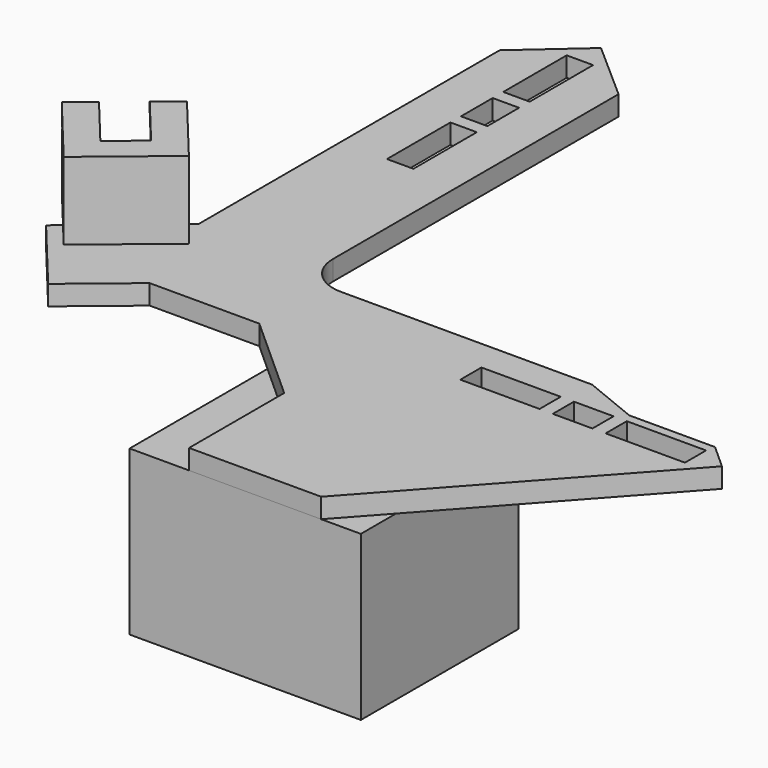
from build123d import *

# Parameters (mm, degrees)
F1_DEPTH  = 1.5
F2_W      = 1
F2_H      = 6
F2_W_2    = 6
F2_H_2    = 1
F3_DEPTH  = 1.501
F5_DEPTH  = 5.85
F6_W      = 2.95
F6_H      = 3.35
F7_DEPTH  = 6.25
F6_W_2    = 0.75
F6_H_2    = 1
F6_W_3    = 1.5
F6_H_3    = 0.75
F8_DEPTH  = 5
F10_DEPTH = 12.4
F12_DEPTH = 13


with BuildPart() as f1:
    # F0 (on Top) → F1 (new body)
    with BuildSketch(Plane.XY):
        with BuildLine():
            Line((4.5, -3.9686269666), (-4.5, -3.9686269666))
            Line((-4.5, -3.9686269666), (-4.5, -32.4686269666))
            Line((-4.5, -32.4686269666), (-11.4354022297, -38.2044962043))
            Line((-11.4354022297, -38.2044962043), (-6.6555111982, -43.9839980624))
            Line((-6.6555111982, -43.9839980624), (-2.0319097118, -40.1600852372))
            Line((-2.0319097118, -40.1600852372), (6.2680902882, -40.1600852372))
            Line((6.2680902882, -40.1600852372), (12.9623928621, -46.1755912882))
            Line((12.9623928621, -46.1755912882), (12.9623928621, -55.1755912882))
            Line((12.9623928621, -55.1755912882), (22.9623928621, -55.1755912882))
            Line((22.9623928621, -55.1755912882), (39.0239336918, -37.3422823923))
            Line((39.0239336918, -37.3422823923), (37.1662973484, -35.6692052225))
            Line((37.1662973484, -35.6692052225), (30.6662973484, -35.6692052225))
            Line((30.6662973484, -35.6692052225), (26.5, -33.9686269666))
            Line((26.5, -33.9686269666), (7.5, -33.9686269666))
            ThreePointArc((7.5, -33.9686269666), (5.3786796564, -33.0899473102), (4.5, -30.9686269666))
            Line((4.5, -30.9686269666), (4.5, -3.9686269666))
        make_face()
        Polygon((4.5, -3.9686269666), (0, 0), (-4.5, -3.9686269666), align=None)
    extrude(amount=F1_DEPTH)

    # F2 (on face) → F3 (cut, through all)
    with BuildSketch(Plane.XY.offset(1.5)):
        with Locations((-0.5, -5)):
            Rectangle(F2_W, F2_H)
        with Locations((0.5, -5)):
            Rectangle(F2_W, F2_H)
        Polygon((0, -12), (0, -10.5), (-1, -9), (-1, -12), align=None)
        Polygon((1, -9), (0, -9), (0, -10.5), (1, -12), align=None)
        with Locations((-0.5, -16)):
            Rectangle(F2_W, F2_H)
        with Locations((0.5, -16)):
            Rectangle(F2_W, F2_H)
        with Locations((23.0239336918, -36.8422823923)):
            Rectangle(F2_W_2, F2_H_2)
        with Locations((23.0239336918, -37.8422823923)):
            Rectangle(F2_W_2, F2_H_2)
        Polygon((30.0239336918, -38.3422823923), (28.5239336918, -37.3422823923), (27.0239336918, -37.3422823923), (27.0239336918, -38.3422823923), align=None)
        with Locations((34.0239336918, -36.8422823923)):
            Rectangle(F2_W_2, F2_H_2)
        with Locations((34.0239336918, -37.8422823923)):
            Rectangle(F2_W_2, F2_H_2)
        Polygon((0, -10.5), (0, -9), (-1, -9), align=None)
        Polygon((1, -12), (0, -10.5), (0, -12), align=None)
        Polygon((27.0239336918, -37.3422823923), (28.5239336918, -37.3422823923), (27.0239336918, -36.3422823923), align=None)
        Polygon((28.5239336918, -37.3422823923), (30.0239336918, -37.3422823923), (30.0239336918, -36.3422823923), (27.0239336918, -36.3422823923), align=None)
        Polygon((30.0239336918, -38.3422823923), (30.0239336918, -37.3422823923), (28.5239336918, -37.3422823923), align=None)
    extrude(amount=-F3_DEPTH, mode=Mode.SUBTRACT)


with BuildPart() as f5:
    # F4 (on face) → F5 (new body)
    with BuildSketch(Plane.XY.offset(1.5)):
        Polygon((-7.8302947675, -29.3833171343), (-13.5327366008, -34.0994762853), (-10.6648019819, -37.5671774001), (-4.9623601486, -32.8510182491), align=None)
        Polygon((-4.9623601486, -32.8510182491), (-10.6648019819, -37.5671774001), (-9.0715049715, -39.4936780195), (-3.3690631382, -34.7775188685), align=None)
    extrude(amount=F5_DEPTH)

    # F6 (on face) → F7 (cut)
    with BuildSketch(Plane(origin=(11.2502047801, -13.6029417831, 0), x_dir=(-0.7706002477, -0.6373188042, 0), z_dir=(-0.6373188042, 0.7706002477, 0))):
        with Locations((29.935567627, 3.925)):
            Rectangle(F6_W, F6_H)
        Polygon((28.460567627, 5.6), (31.410567627, 5.6), (31.410567627, 6.6), (29.960567627, 6.6), (28.460567627, 6.6), align=None)
        with Locations((26.985567627, 3.925)):
            Rectangle(F6_W, F6_H)
        Polygon((25.510567627, 5.6), (28.460567627, 5.6), (28.460567627, 6.6), (26.960567627, 6.6), (25.510567627, 6.6), align=None)
    extrude(amount=-F7_DEPTH, mode=Mode.SUBTRACT)

    # F6 (on face) → F8 (cut)
    with BuildSketch(Plane(origin=(11.2502047801, -13.6029417831, 0), x_dir=(-0.7706002477, -0.6373188042, 0), z_dir=(-0.6373188042, 0.7706002477, 0))):
        with Locations((31.785567627, 6.1)):
            Rectangle(F6_W_2, F6_H_2)
        with Locations((29.210567627, 6.975)):
            Rectangle(F6_W_3, F6_H_3)
        with Locations((27.710567627, 6.975)):
            Rectangle(F6_W_3, F6_H_3)
        with Locations((25.135567627, 6.1)):
            Rectangle(F6_W_2, F6_H_2)
    extrude(amount=-F8_DEPTH, mode=Mode.SUBTRACT)


with BuildPart() as f10:
    # F9 (on face) → F10 (new body)
    with BuildSketch(Plane(origin=(0, 0, 0), x_dir=(1, 0, 0), z_dir=(0, 0, -1))):
        Polygon((12.9623928621, 46.1755912882), (12.9623928621, 55.1755912882), (8.4623928621, 55.1755912882), (8.4623928621, 42.1318874176), align=None)
        Polygon((25.9623928621, 51.8446576465), (22.9623928621, 55.1755912882), (12.9623928621, 55.1755912882), (12.9623928621, 46.1755912882), (8.4623928621, 42.1318874176), (8.4623928621, 40.2755912882), (25.9623928621, 40.2755912882), align=None)
        Polygon((25.9623928621, 51.8446576465), (25.9623928621, 55.1755912882), (22.9623928621, 55.1755912882), align=None)
    extrude(amount=F10_DEPTH)

    # F11 (on face) → F12 (cut)
    with BuildSketch(Plane(origin=(8.4623928621, 0, 0), x_dir=(0, -1, 0), z_dir=(-1, 0, 0))):
        Polygon((47.7255912882, -0.5), (47.7255912882, -10.3), (53.6755912882, -10.3), (53.6755912882, -7.7), (54.3755912882, -7.7), (54.3755912882, -5.1), (53.6755912882, -5.1), (53.6755912882, -3.1), (51.1755912882, -3.1), (51.1755912882, -1.1), (49.8755912882, -1.1), (49.8755912882, -0.5), align=None)
        Polygon((41.7755912882, -10.3), (47.7255912882, -10.3), (47.7255912882, -0.5), (45.5755912882, -0.5), (45.5755912882, -1.1), (44.2755912882, -1.1), (44.2755912882, -3.1), (41.7755912882, -3.1), (41.7755912882, -5.1), (41.0755912882, -5.1), (41.0755912882, -7.7), (41.7755912882, -7.7), align=None)
    extrude(amount=-F12_DEPTH, mode=Mode.SUBTRACT)


solid = Compound([f1.part, f5.part, f10.part])
